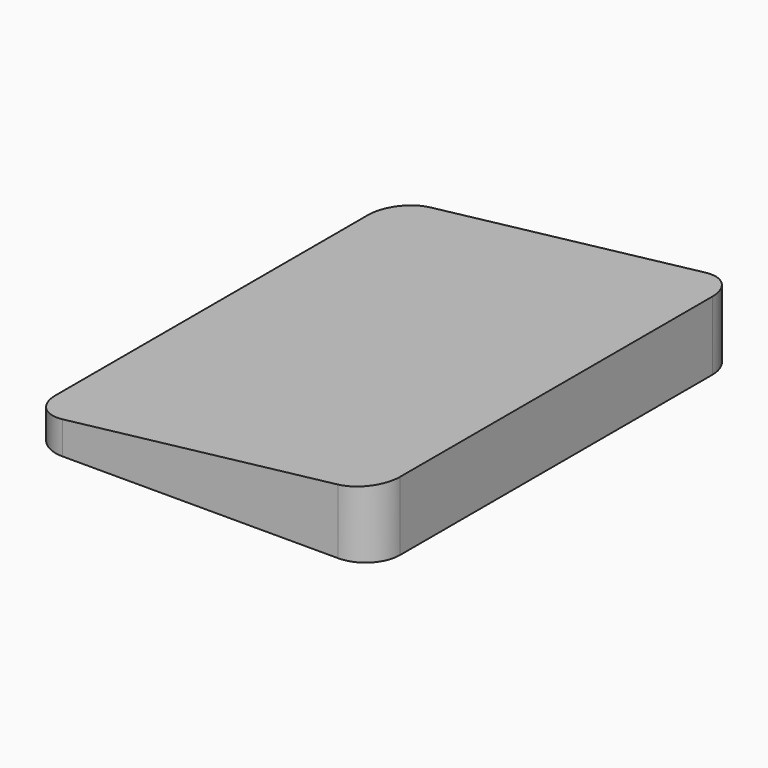
from build123d import *

# Parameters (mm, degrees)
F3_DEPTH = 15.24
F4_DEPTH = 304.801


with BuildPart() as f3:
    # F1 (on Top) → F3 (new body, through all)
    with BuildSketch(Plane.XY):
        with BuildLine():
            Line((30.48, 50.8), (-30.48, 50.8))
            ThreePointArc((-30.48, 50.8), (-35.868154, 48.568154), (-38.1, 43.18))
            Line((-38.1, 43.18), (-38.1, -43.18))
            ThreePointArc((-38.1, -43.18), (-35.868154, -48.568154), (-30.48, -50.8))
            Line((-30.48, -50.8), (30.48, -50.8))
            ThreePointArc((30.48, -50.8), (35.868154, -48.568154), (38.1, -43.18))
            Line((38.1, -43.18), (38.1, 43.18))
            ThreePointArc((38.1, 43.18), (35.868154, 48.568154), (30.48, 50.8))
        make_face()
    extrude(amount=F3_DEPTH)

    # F2 (on offset) → F4 (intersect, through all)
    with BuildSketch(Plane.XZ.offset(254)):
        Polygon((-38.1, 6.35), (-38.1, 0), (38.1, 0), (38.1, 15.24), align=None)
    extrude(amount=-F4_DEPTH, mode=Mode.INTERSECT)


solid = f3.part
